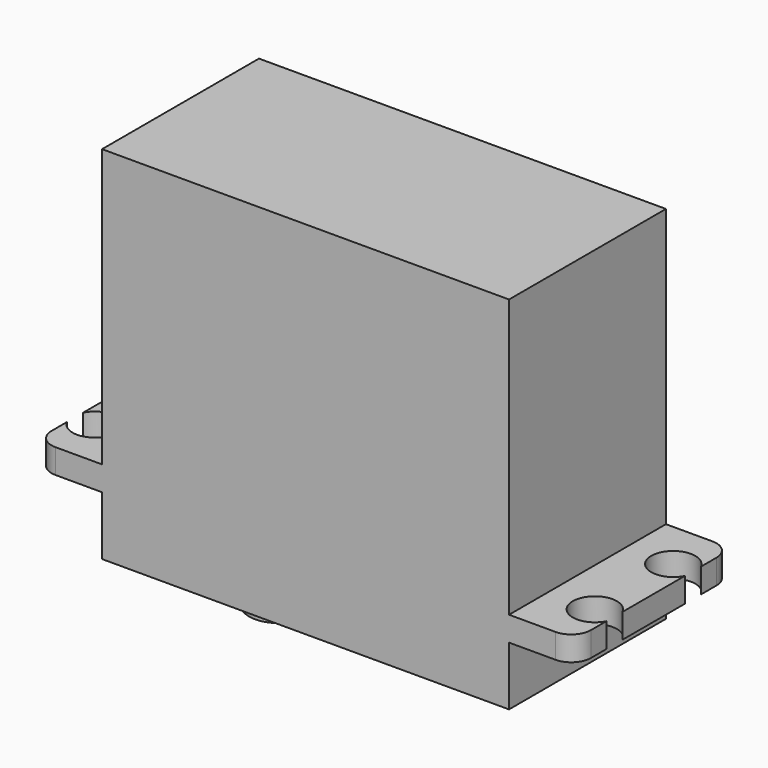
from build123d import *

# Parameters (mm, degrees)
F0_W     = 41.5
F0_H     = 36.8
F1_DEPTH = 20
F2_W     = 55
F2_H     = 2.5
F3_DEPTH = 20
F4_R     = 3
F5_DEPTH = 5
F6_R     = 2.25
F7_DEPTH = 25
F8_R     = 2


with BuildPart() as f1:
    # F0 (on Front) → F1 (new body)
    with BuildSketch(Plane.XZ):
        Rectangle(F0_W, F0_H)
    extrude(amount=F1_DEPTH)

    # F2 (on face) → F3 (join)
    with BuildSketch(Plane.XZ.offset(20)):
        with Locations((0, -11.15)):
            Rectangle(F2_W, F2_H)
    extrude(amount=-F3_DEPTH)

    # F4 (on face) → F5 (join)
    with BuildSketch(Plane(origin=(0, 0, -18.4), x_dir=(1, 0, 0), z_dir=(0, 0, -1))):
        with Locations((-10.75, 10)):
            Circle(F4_R)
    extrude(amount=F5_DEPTH)

    # F6 (on face) → F7 (cut)
    with BuildSketch(Plane(origin=(0, 0, -12.4), x_dir=(1, 0, 0), z_dir=(0, 0, -1))):
        with Locations((-25.5, 15)):
            Circle(F6_R)
        with Locations((-25.5, 5)):
            Circle(F6_R)
        with Locations((25.5, 15)):
            Circle(F6_R)
        with Locations((25.5, 5)):
            Circle(F6_R)
    extrude(amount=-F7_DEPTH, mode=Mode.SUBTRACT)

    # F8
    f8_edges = [f1.edges().sort_by_distance(p)[0] for p in [
        (27.5, -20, -11.15),
        (27.5, 0, -11.15),
        (-27.5, -20, -11.15),
        (-27.5, 0, -11.15),
    ]]
    fillet(f8_edges, radius=F8_R)


solid = f1.part
